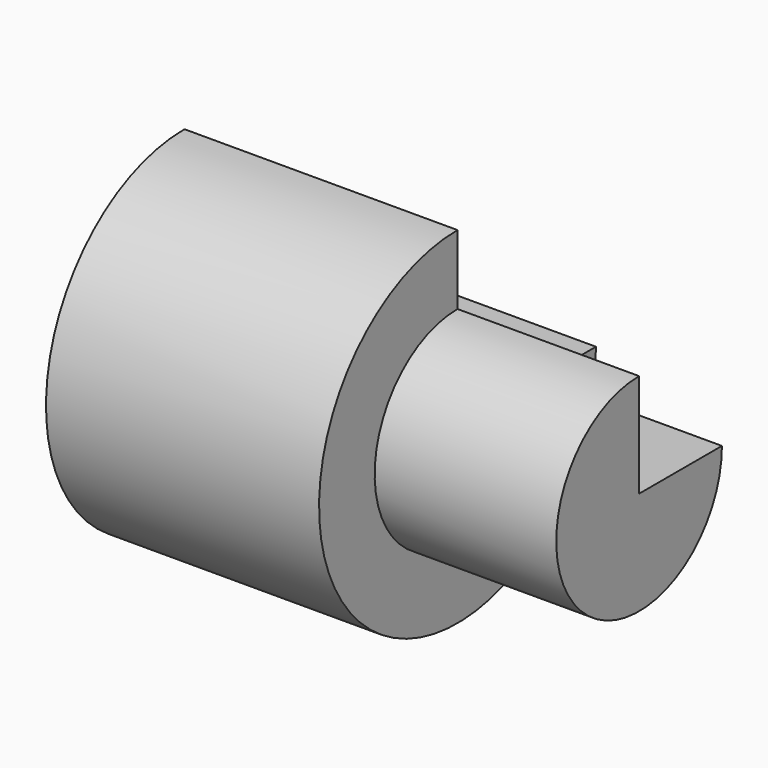
from build123d import *

# Parameters (mm, degrees)
F0_W     = 38.1425693631
F0_H     = 21.7531826347
F1_ANGLE = 270


with BuildPart() as f1:
    # F0 (on Front) → F1 (revolve)
    with BuildSketch(Plane.XZ):
        Polygon((0, 36.3546386361), (0, 0), (57.3628470302, 0), (57.3628470302, 21.7531826347), (57.3628470302, 36.3546386361), align=None)
        with Locations((76.4341317117, 10.8765913174)):
            Rectangle(F0_W, F0_H)
    revolve(axis=Axis((28.6814235151, 0, 0), (1, 0, 0)), revolution_arc=F1_ANGLE)


solid = f1.part
